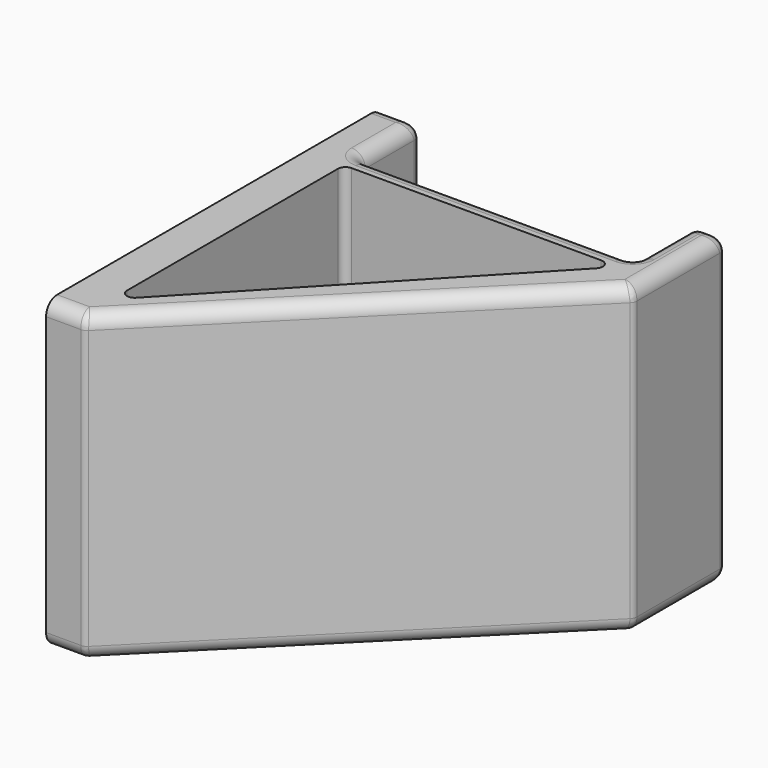
from build123d import *

# Parameters (mm, degrees)
PAD_DEPTH       = 40
POCKET_DEPTH    = 19
POCKET001_DEPTH = 19
FILLET_R        = 1
FILLET001_R     = 1.8


with BuildPart() as part:
    # Sketch → Pad (new body)
    with BuildSketch(Plane.XY):
        Polygon((0, 0), (0, -55), (5, -55), (45, -15), (45, 0), (41, 0), (41, -10), (5, -10), (5, 0), align=None)
    extrude(amount=PAD_DEPTH)

    # Sketch001 (on Face10 of Pad) → Pocket (cut)
    with BuildSketch(Plane(origin=(0, 0, 0), x_dir=(1, 0, 0), z_dir=(0, 0, -1))):
        Polygon((5, 12.5), (5, 50.5), (41, 12.5), align=None)
    extrude(amount=-POCKET_DEPTH, mode=Mode.SUBTRACT)

    # Sketch002 (on Face5 of Pocket) → Pocket001 (cut)
    with BuildSketch(Plane.XY.offset(40)):
        Polygon((5, -12.5), (41, -12.5), (5, -50.5), align=None)
    extrude(amount=-POCKET001_DEPTH, mode=Mode.SUBTRACT)

    # Fillet
    fillet_edges = [part.edges().sort_by_distance(p)[0] for p in [
        (5, 0, 20),
        (5, -10, 20),
        (45, -15, 20),
        (45, 0, 20),
        (41, 0, 20),
        (5, -55, 20),
        (41, -10, 20),
        (41, -12.5, 30.5),
        (5, -12.5, 30.5),
        (5, -50.5, 30.5),
        (5, -12.5, 9.5),
        (5, -50.5, 9.5),
        (41, -12.5, 9.5),
    ]]
    fillet(fillet_edges, radius=FILLET_R)

    # Fillet001
    fillet001_edges = [part.edges().sort_by_distance(p)[0] for p in [
        (23, -10, 40),
        (23, -10, 0),
    ]]
    fillet(fillet001_edges, radius=FILLET001_R)


solid = part.part
